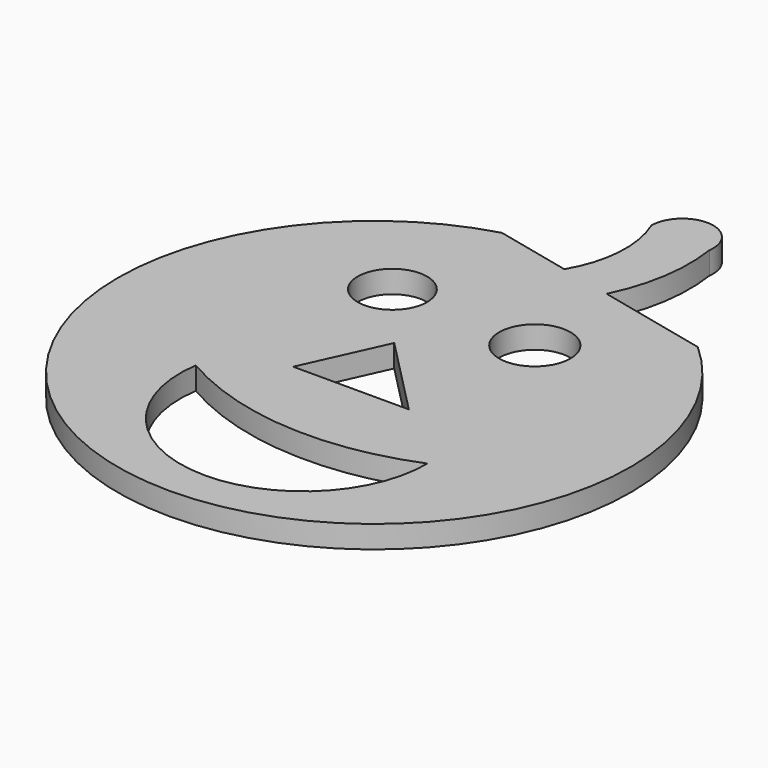
from build123d import *

# Parameters (mm, degrees)
F0_R     = 6.181285
F0_R_2   = 6.351313
F1_DEPTH = 4


with BuildPart() as f1:
    # F0 (on Top) → F1 (new body)
    with BuildSketch(Plane.XY):
        with BuildLine():
            Line((1.220521, 40.809173), (-12.403472, 43.943331))
            ThreePointArc((-12.403472, 43.943331), (-10.236632, -44.49802), (30.358496, 34.106072))
            Line((30.358496, 34.106072), (10.453481, 38.685159))
            ThreePointArc((10.453481, 38.685159), (13.391623, 48.055284), (13.402691, 57.875253))
            ThreePointArc((13.402691, 57.875253), (8.35616, 64.172615), (2.436853, 58.687542))
            ThreePointArc((2.436853, 58.687542), (3.944447, 49.604414), (1.220521, 40.809173))
        make_face()
        with BuildLine():
            ThreePointArc((22.926349, -16.812613), (-0.504454, -38.884538), (-20.715496, -13.830872))
            ThreePointArc((-20.715496, -13.830872), (0.757323, -20.416722), (22.926349, -16.812613))
        make_face(mode=Mode.SUBTRACT)
        Polygon((-9.872802, -5.698852), (-3.367185, 8.667719), (10.728318, -5.698852), align=None, mode=Mode.SUBTRACT)
        with Locations((-13.667745, 21.136815)):
            Circle(F0_R, mode=Mode.SUBTRACT)
        with Locations((12.354721, 20.323616)):
            Circle(F0_R_2, mode=Mode.SUBTRACT)
    extrude(amount=F1_DEPTH)


solid = f1.part
